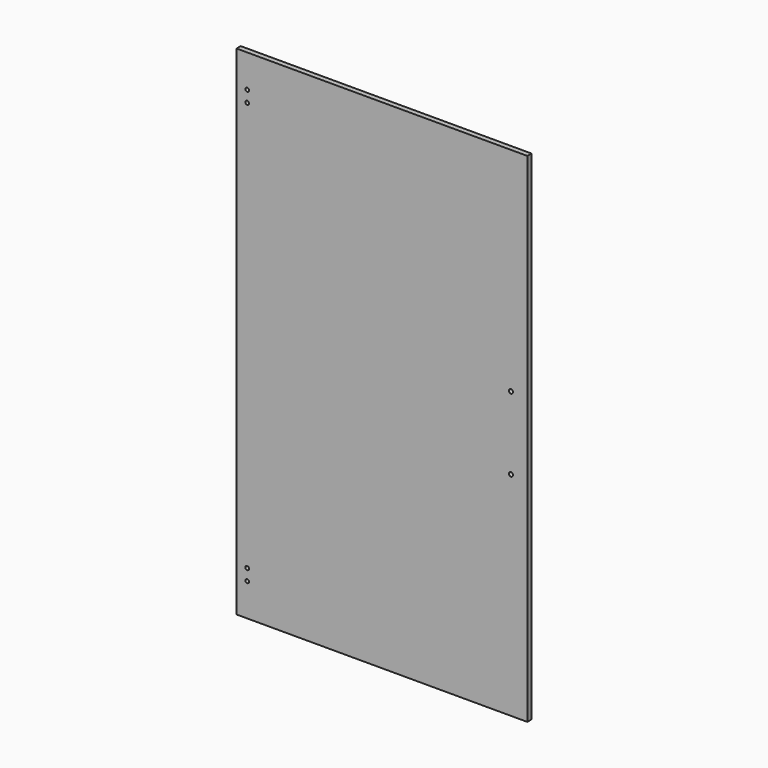
from build123d import *

# Parameters (mm, degrees)
F0_W     = 354
F0_H     = 606.6
F1_DEPTH = 6.35
F2_D     = 4.5
F3_D     = 5.0546


with BuildPart() as f1:
    # F0 (on Front) → F1 (new body)
    with BuildSketch(Plane.XZ):
        with Locations((177, 0)):
            Rectangle(F0_W, F0_H)
    extrude(amount=-F1_DEPTH)

    # F2 (through all)
    with Locations(Plane.XZ):
        with Locations((13, 263.3), (13, 249.3), (13, -249.3), (13, -263.3)):
            Hole(F2_D / 2)

    # F3 (through all)
    with Locations(Plane.XZ):
        with Locations((334, 44.45), (334, -44.45)):
            Hole(F3_D / 2)


solid = f1.part
